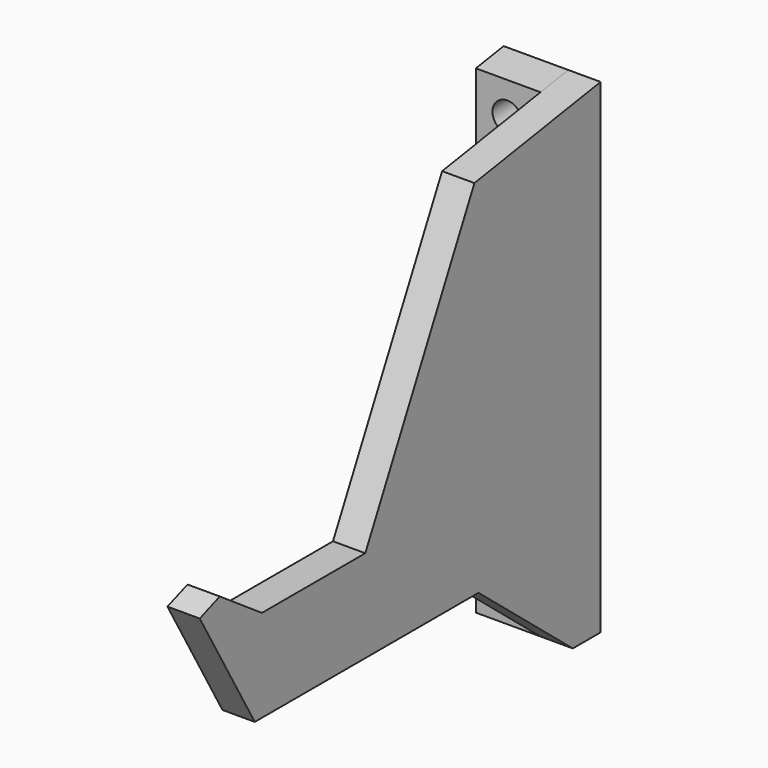
from build123d import *

# Parameters (mm, degrees)
F1_DEPTH = 12.7
F2_W     = 12.7
F2_H     = 59.960696
F3_DEPTH = 38.1
F5_DEPTH = 25.4
F7_DEPTH = 25.4
F8_R     = 5.786168
F8_R_2   = 6.967472
F9_DEPTH = 25.4


with BuildPart() as f1:
    # F0 (on Right) → F1 (new body)
    with BuildSketch(Plane.YZ):
        Polygon((-109.703772, 19.6246), (-82.661435, -27.145265), (87.22869, -27.145265), (87.22869, 125.254735), (25.250674, 115.436092), (-28.360057, 9.155148), (-79.160057, 9.155148), (-99.851914, 23.26324), align=None)
    extrude(amount=F1_DEPTH)

    # F2 (on face) → F3 (join)
    with BuildSketch(Plane(origin=(0, 0, -27.145265), x_dir=(1, 0, 0), z_dir=(0, 0, -1))):
        with Locations((6.35, -57.248342)):
            Rectangle(F2_W, F2_H)
    extrude(amount=F3_DEPTH)

    # F4 (on face) → F5 (cut)
    with BuildSketch(Plane.YZ.offset(12.7)):
        Polygon((73.597223, -65.245265), (27.267994, -27.145265), (27.267994, -65.245265), align=None)
    extrude(amount=-F5_DEPTH, mode=Mode.SUBTRACT)

    # F6 (on face) → F7 (join)
    with BuildSketch(Plane(origin=(0, 0, 0), x_dir=(0, -1, 0), z_dir=(-1, 0, 0))):
        Polygon((-87.22869, 125.254735), (-87.22869, -65.245265), (-73.597223, -65.245265), (-73.597223, 123.095219), align=None)
    extrude(amount=F7_DEPTH)

    # F8 (on face) → F9 (cut)
    with BuildSketch(Plane.XZ.offset(-73.597223)):
        with Locations((-13.092614, 110.243045)):
            Circle(F8_R)
        with Locations((-12.68347, -48.504848)):
            Circle(F8_R_2)
    extrude(amount=-F9_DEPTH, mode=Mode.SUBTRACT)


solid = f1.part
